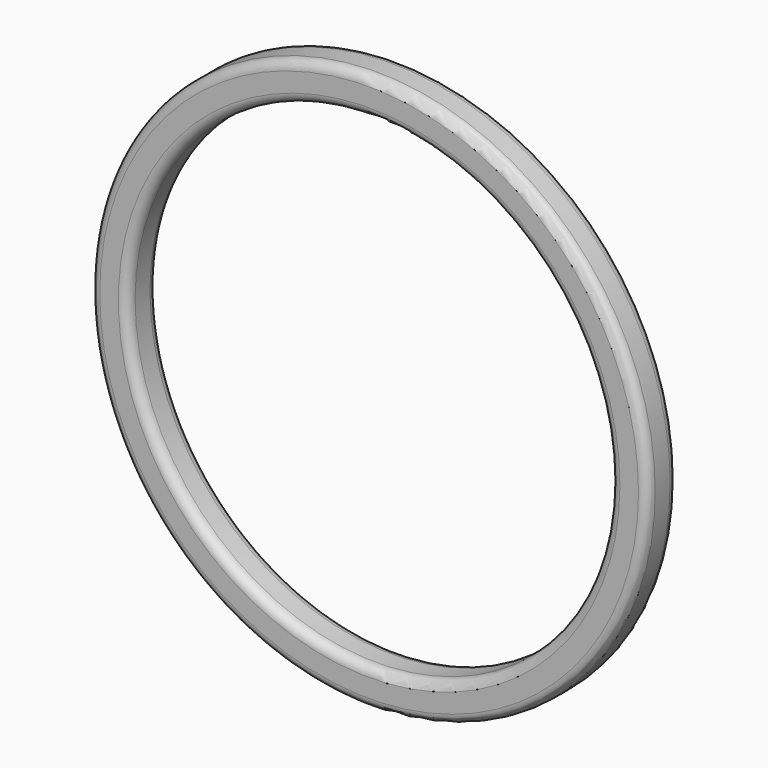
from build123d import *

# Parameters (mm, degrees)
F0_R     = 19.05
F0_R_2   = 16.51
F1_DEPTH = 2.54
F2_R     = 0.635
F3_R     = 0.635


with BuildPart() as f1:
    # F0 (on Front) → F1 (new body)
    with BuildSketch(Plane.XZ):
        Circle(F0_R)
        Circle(F0_R_2, mode=Mode.SUBTRACT)
    extrude(amount=F1_DEPTH)

    # F2
    f2_edges = [f1.edges().sort_by_distance(p)[0] for p in [
        (-16.51, 0, 0),
        (-19.05, 0, 0),
    ]]
    fillet(f2_edges, radius=F2_R)

    # F3
    f3_edges = [f1.edges().sort_by_distance(p)[0] for p in [
        (-16.51, -2.54, 0),
        (-19.05, -2.54, 0),
    ]]
    fillet(f3_edges, radius=F3_R)


solid = f1.part
